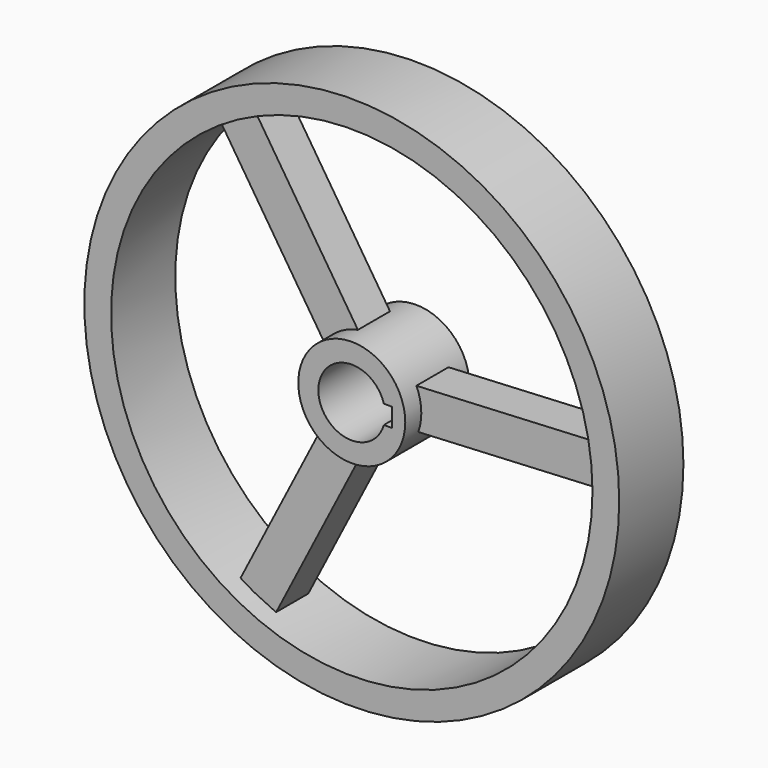
from build123d import *

# Parameters (mm, degrees)
F0_R     = 127
F0_R_2   = 114.3
F1_DEPTH = 19.05
F0_R_3   = 25.4
F0_R_4   = 15.875
F3_DEPTH = 9.525
F4_COUNT = 3
F4_ANGLE = 240
F6_DEPTH = 38.101


with BuildPart() as f1:
    # F0 (on Front) → F1 (new body, symmetric)
    with BuildSketch(Plane.XZ):
        Circle(F0_R)
        Circle(F0_R_2, mode=Mode.SUBTRACT)
    extrude(amount=F1_DEPTH, both=True)


with BuildPart() as f1b:
    # F0 (on Front) → F1, piece 2 (new body, symmetric)
    with BuildSketch(Plane.XZ):
        Circle(F0_R_3)
        Circle(F0_R_4, mode=Mode.SUBTRACT)
    extrude(amount=F1_DEPTH, both=True)

    # F5 (on face) → F6 (cut, through all)
    with BuildSketch(Plane.XZ.offset(19.05)):
        with BuildLine():
            ThreePointArc((15.24, -4.445), (15.7154482119, -2.2450640303), (15.875, 0))
            ThreePointArc((15.875, 0), (15.7154482119, 2.2450640303), (15.24, 4.445))
            Line((15.24, 4.445), (15.24, -4.445))
        make_face()
        with BuildLine():
            ThreePointArc((15.24, 4.445), (15.7154482119, 2.2450640303), (15.875, 0))
            ThreePointArc((15.875, 0), (15.7154482119, -2.2450640303), (15.24, -4.445))
            Line((15.24, -4.445), (19.05, -4.445))
            Line((19.05, -4.445), (19.05, 4.445))
            Line((19.05, 4.445), (15.24, 4.445))
        make_face()
    extrude(amount=-F6_DEPTH, mode=Mode.SUBTRACT)


with BuildPart() as f3:
    # F2 (on Front) → F3 (new body, symmetric)
    with BuildSketch(Plane.XZ):
        with BuildLine():
            ThreePointArc((-20.7433765464, 14.6585241226), (-13.7326549344, 21.3675966934), (-4.7176359388, 24.9580430152))
            Line((-4.7176359388, 24.9580430152), (-53.754796263, 100.8707682073))
            ThreePointArc((-53.754796263, 100.8707682073), (-61.9737207655, 96.0403453476), (-69.7615223268, 90.5418135595))
            Line((-69.7615223268, 90.5418135595), (-20.7433765464, 14.6585241226))
        make_face()
    extrude(amount=F3_DEPTH, both=True)


with BuildPart() as f4_1:
    # F4: instance of F3
    add(f3.part.rotate(Axis((0, 0, 0), (0, -1, 0)), 1 * F4_ANGLE / (F4_COUNT - 1)))


with BuildPart() as f4_2:
    # F4: instance of F3
    add(f3.part.rotate(Axis((0, 0, 0), (0, -1, 0)), 2 * F4_ANGLE / (F4_COUNT - 1)))


solid = Compound([f1.part, f1b.part, f3.part, f4_1.part, f4_2.part])
